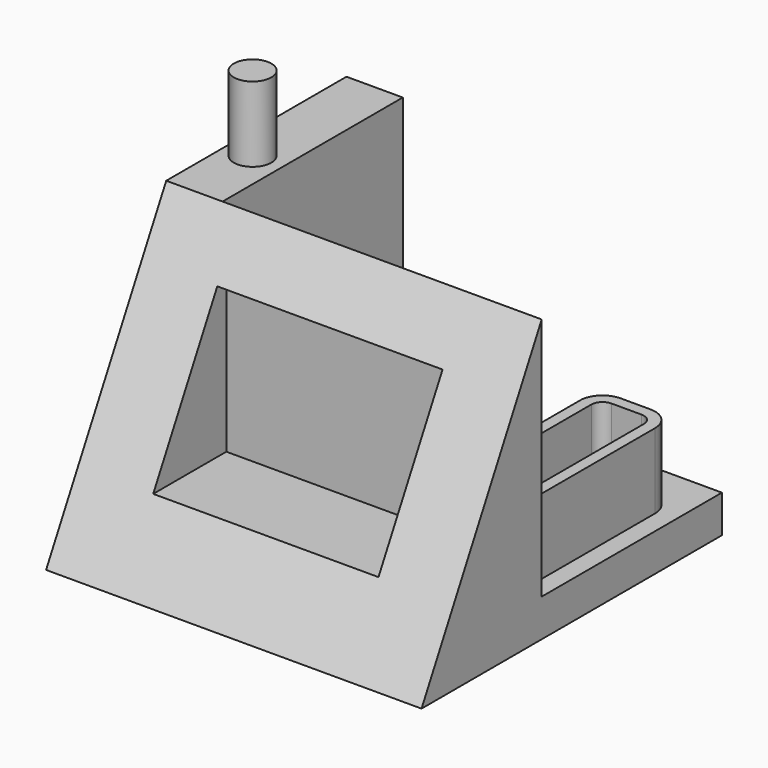
from build123d import *

# Parameters (mm, degrees)
F0_W      = 100
F0_H      = 75
F1_DEPTH  = 40
F3_DEPTH  = 100.001
F4_W      = 60
F4_H      = 40
F5_DEPTH  = 35
F6_W      = 60
F6_H      = 10
F7_DEPTH  = 30
F8_W      = 20
F8_H      = 50
F9_DEPTH  = 20
F10_W     = 14
F10_H     = 47
F11_DEPTH = 17
F12_R     = 3
F13_R     = 6
F14_W     = 60
F14_H     = 75
F15_DEPTH = 15
F16_R     = 5
F17_DEPTH = 20


with BuildPart() as f1:
    # F0 (on Front) → F1 (new body)
    with BuildSketch(Plane.XZ):
        with Locations((50, 37.5)):
            Rectangle(F0_W, F0_H)
    extrude(amount=-F1_DEPTH)

    # F2 (on face) → F3 (cut, through all)
    with BuildSketch(Plane.YZ.offset(100)):
        Polygon((0, 0), (40, 75), (0, 75), align=None)
    extrude(amount=-F3_DEPTH, mode=Mode.SUBTRACT)

    # F4 (on Front) → F5 (cut)
    with BuildSketch(Plane.XZ):
        with Locations((50, 40)):
            Rectangle(F4_W, F4_H)
    extrude(amount=-F5_DEPTH, mode=Mode.SUBTRACT)

    # F6 (on face) → F7 (join)
    with BuildSketch(Plane.YZ.offset(100)):
        with Locations((70, 5)):
            Rectangle(F6_W, F6_H)
    extrude(amount=-F7_DEPTH)

    # F8 (on face) → F9 (join)
    with BuildSketch(Plane.XY.offset(10)):
        with Locations((85, 65)):
            Rectangle(F8_W, F8_H)
    extrude(amount=F9_DEPTH)

    # F10 (on face) → F11 (cut)
    with BuildSketch(Plane.XY.offset(30)):
        with Locations((85, 63.5)):
            Rectangle(F10_W, F10_H)
    extrude(amount=-F11_DEPTH, mode=Mode.SUBTRACT)

    # F12
    f12_edges = [f1.edges().sort_by_distance(p)[0] for p in [
        (78, 87, 21.5),
        (92, 87, 21.5),
    ]]
    fillet(f12_edges, radius=F12_R)

    # F13
    f13_edges = [f1.edges().sort_by_distance(p)[0] for p in [
        (75, 90, 20),
        (95, 90, 20),
    ]]
    fillet(f13_edges, radius=F13_R)

    # F14 (on face) → F15 (join)
    with BuildSketch(Plane(origin=(0, 0, 0), x_dir=(0, -1, 0), z_dir=(-1, 0, 0))):
        with Locations((-70, 37.5)):
            Rectangle(F14_W, F14_H)
    extrude(amount=-F15_DEPTH)

    # F16 (on face) → F17 (join)
    with BuildSketch(Plane.XY.offset(75)):
        with Locations((7, 60)):
            Circle(F16_R)
    extrude(amount=F17_DEPTH)


solid = f1.part
